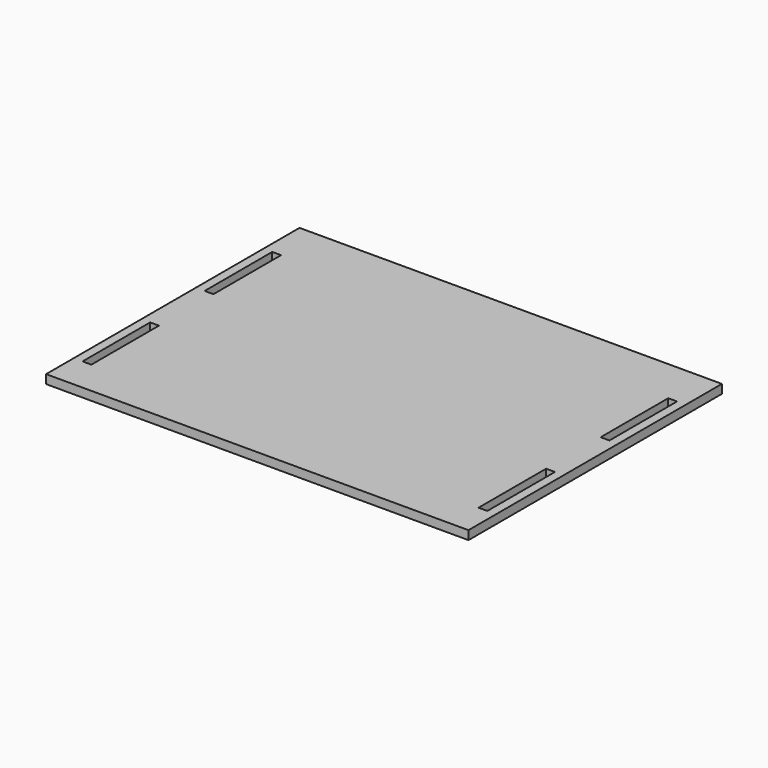
from build123d import *

# Parameters (mm, degrees)
F0_W     = 609.6
F0_H     = 457.2
F2_DEPTH = 12.7
F1_W     = 12.7
F1_H     = 121.92
F3_DEPTH = 12.7


with BuildPart() as f2:
    # F0 (on Top) → F2 (new body)
    with BuildSketch(Plane.XY):
        with Locations((0.778053, 45.127202)):
            Rectangle(F0_W, F0_H)
    extrude(amount=F2_DEPTH)

    # F1 (on Top) → F3 (cut)
    with BuildSketch(Plane.XY):
        with Locations((-284.971947, 147.677848)):
            Rectangle(F1_W, F1_H)
        with Locations((-284.971947, -72.606091)):
            Rectangle(F1_W, F1_H)
        with Locations((286.528053, 147.677848)):
            Rectangle(F1_W, F1_H)
        with Locations((286.528053, -72.606091)):
            Rectangle(F1_W, F1_H)
    extrude(amount=F3_DEPTH, mode=Mode.SUBTRACT)


solid = f2.part
